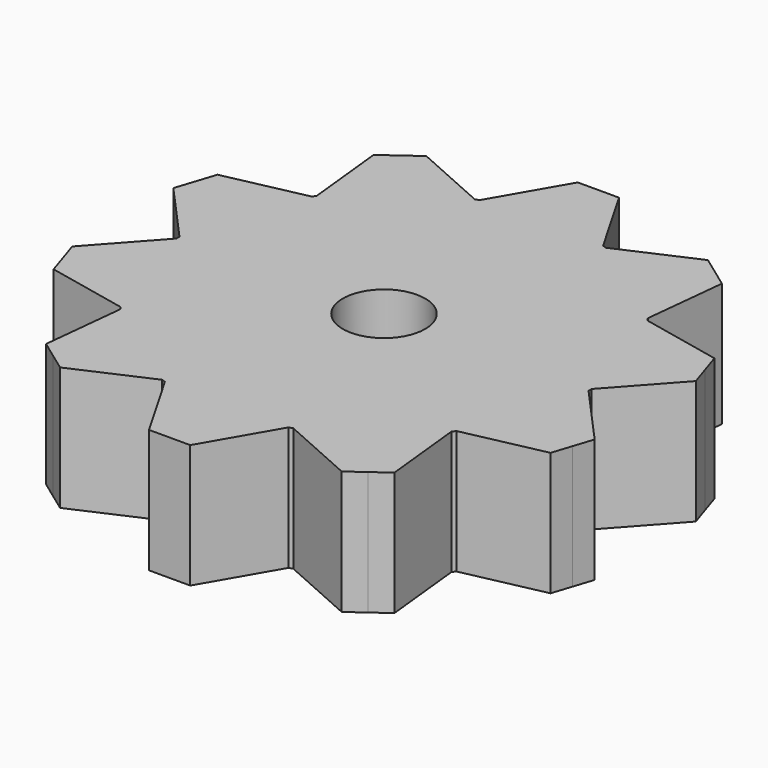
from build123d import *

# Parameters (mm, degrees)
F1_DEPTH = 3
F2_R     = 1
F3_DEPTH = 3


with BuildPart() as f1:
    # F0 (on Top) → F1 (new body)
    with BuildSketch(Plane.XY):
        with BuildLine():
            ThreePointArc((4.999764, -0.048624), (4.999941, -0.024312), (5, 0))
            ThreePointArc((5, 0), (4.999941, 0.024312), (4.999764, 0.048624))
            ThreePointArc((4.999764, 0.048624), (4.755283, 1.545085), (4.073474, 2.89945))
            ThreePointArc((4.073474, 2.89945), (4.045085, 2.938926), (4.016313, 2.978125))
            ThreePointArc((4.016313, 2.978125), (2.938926, 4.045085), (1.591256, 4.740032))
            ThreePointArc((1.591256, 4.740032), (1.545085, 4.755283), (1.498768, 4.770083))
            ThreePointArc((1.498768, 4.770083), (0, 5), (-1.498768, 4.770083))
            ThreePointArc((-1.498768, 4.770083), (-1.545085, 4.755283), (-1.591256, 4.740032))
            ThreePointArc((-1.591256, 4.740032), (-2.938926, 4.045085), (-4.016313, 2.978125))
            ThreePointArc((-4.016313, 2.978125), (-4.045085, 2.938926), (-4.073474, 2.89945))
            ThreePointArc((-4.073474, 2.89945), (-4.755283, 1.545085), (-4.999764, 0.048624))
            ThreePointArc((-4.999764, 0.048624), (-5, 0), (-4.999764, -0.048624))
            ThreePointArc((-4.999764, -0.048624), (-4.755283, -1.545085), (-4.073474, -2.89945))
            ThreePointArc((-4.073474, -2.89945), (-4.045085, -2.938926), (-4.016313, -2.978125))
            ThreePointArc((-4.016313, -2.978125), (-2.938926, -4.045085), (-1.591256, -4.740032))
            ThreePointArc((-1.591256, -4.740032), (-1.545085, -4.755283), (-1.498768, -4.770083))
            ThreePointArc((-1.498768, -4.770083), (0, -5), (1.498768, -4.770083))
            ThreePointArc((1.498768, -4.770083), (1.545085, -4.755283), (1.591256, -4.740032))
            ThreePointArc((1.591256, -4.740032), (2.938926, -4.045085), (4.016313, -2.978125))
            ThreePointArc((4.016313, -2.978125), (4.045085, -2.938926), (4.073474, -2.89945))
            ThreePointArc((4.073474, -2.89945), (4.755283, -1.545085), (4.999764, -0.048624))
        make_face()
        with BuildLine():
            ThreePointArc((4.073474, 2.89945), (4.755283, 1.545085), (4.999764, 0.048624))
            Line((4.999764, 0.048624), (6.336376, 1.533082))
            Line((6.336376, 1.533082), (6.181867, 2.00861))
            Line((6.181867, 2.00861), (6.027359, 2.484139))
            Line((6.027359, 2.484139), (4.073474, 2.89945))
        make_face()
        with BuildLine():
            Line((6.336376, -1.533082), (4.999764, -0.048624))
            ThreePointArc((4.999764, -0.048624), (4.755283, -1.545085), (4.073474, -2.89945))
            Line((4.073474, -2.89945), (6.027359, -2.484139))
            Line((6.027359, -2.484139), (6.181867, -2.00861))
            Line((6.181867, -2.00861), (6.336376, -1.533082))
        make_face()
        with BuildLine():
            ThreePointArc((1.591256, 4.740032), (2.938926, 4.045085), (4.016313, 2.978125))
            Line((4.016313, 2.978125), (4.225113, 4.964718))
            Line((4.225113, 4.964718), (3.820604, 5.25861))
            Line((3.820604, 5.25861), (3.416096, 5.552503))
            Line((3.416096, 5.552503), (1.591256, 4.740032))
        make_face()
        with BuildLine():
            Line((4.225113, -4.964718), (4.016313, -2.978125))
            ThreePointArc((4.016313, -2.978125), (2.938926, -4.045085), (1.591256, -4.740032))
            Line((1.591256, -4.740032), (3.416096, -5.552503))
            Line((3.416096, -5.552503), (3.820604, -5.25861))
            Line((3.820604, -5.25861), (4.225113, -4.964718))
        make_face()
        with BuildLine():
            ThreePointArc((-1.498768, 4.770083), (0, 5), (1.498768, 4.770083))
            Line((1.498768, 4.770083), (0.5, 6.5))
            Line((0.5, 6.5), (0, 6.5))
            Line((0, 6.5), (-0.5, 6.5))
            Line((-0.5, 6.5), (-1.498768, 4.770083))
        make_face()
        with BuildLine():
            Line((0.5, -6.5), (1.498768, -4.770083))
            ThreePointArc((1.498768, -4.770083), (0, -5), (-1.498768, -4.770083))
            Line((-1.498768, -4.770083), (-0.5, -6.5))
            Line((-0.5, -6.5), (0, -6.5))
            Line((0, -6.5), (0.5, -6.5))
        make_face()
        with BuildLine():
            ThreePointArc((-4.016313, 2.978125), (-2.938926, 4.045085), (-1.591256, 4.740032))
            Line((-1.591256, 4.740032), (-3.416096, 5.552503))
            Line((-3.416096, 5.552503), (-3.820604, 5.25861))
            Line((-3.820604, 5.25861), (-4.225113, 4.964718))
            Line((-4.225113, 4.964718), (-4.016313, 2.978125))
        make_face()
        with BuildLine():
            Line((-3.416096, -5.552503), (-1.591256, -4.740032))
            ThreePointArc((-1.591256, -4.740032), (-2.938926, -4.045085), (-4.016313, -2.978125))
            Line((-4.016313, -2.978125), (-4.225113, -4.964718))
            Line((-4.225113, -4.964718), (-3.820604, -5.25861))
            Line((-3.820604, -5.25861), (-3.416096, -5.552503))
        make_face()
        with BuildLine():
            ThreePointArc((-4.999764, 0.048624), (-4.755283, 1.545085), (-4.073474, 2.89945))
            Line((-4.073474, 2.89945), (-6.027359, 2.484139))
            Line((-6.027359, 2.484139), (-6.181867, 2.00861))
            Line((-6.181867, 2.00861), (-6.336376, 1.533082))
            Line((-6.336376, 1.533082), (-4.999764, 0.048624))
        make_face()
        with BuildLine():
            Line((-6.027359, -2.484139), (-4.073474, -2.89945))
            ThreePointArc((-4.073474, -2.89945), (-4.755283, -1.545085), (-4.999764, -0.048624))
            Line((-4.999764, -0.048624), (-6.336376, -1.533082))
            Line((-6.336376, -1.533082), (-6.181867, -2.00861))
            Line((-6.181867, -2.00861), (-6.027359, -2.484139))
        make_face()
    extrude(amount=F1_DEPTH)

    # F2 (on face) → F3 (cut, through all)
    with BuildSketch(Plane.XY.offset(3)):
        Circle(F2_R)
    extrude(amount=-F3_DEPTH, mode=Mode.SUBTRACT)


solid = f1.part
